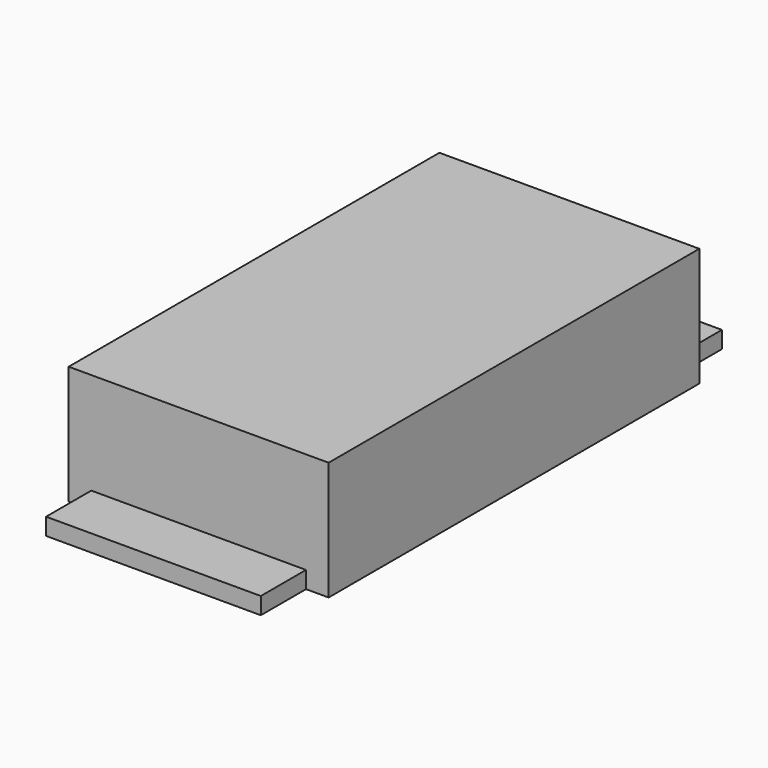
from build123d import *

# Parameters (mm, degrees)
F0_W     = 19
F0_H     = 5
F1_DEPTH = 9
F2_DEPTH = 1.5


with BuildPart() as f1:
    # F0 (on Top) → F1 (new body)
    with BuildSketch(Plane.XY):
        Polygon((9.5, -20.5), (11.5, -20.5), (11.5, 20.5), (9.5, 20.5), (9.5, 15.5), (-9.5, 15.5), (-9.5, 20.5), (-11.5, 20.5), (-11.5, -20.5), (-9.5, -20.5), (-9.5, -15.5), (9.5, -15.5), align=None)
        with Locations((0, 18)):
            Rectangle(F0_W, F0_H)
        with Locations((0, -18)):
            Rectangle(F0_W, F0_H)
    extrude(amount=F1_DEPTH)

    # F0 (on Top) → F2 (join)
    with BuildSketch(Plane.XY):
        with Locations((0, -23)):
            Rectangle(F0_W, F0_H)
        with Locations((0, -18)):
            Rectangle(F0_W, F0_H)
        Polygon((9.5, -20.5), (11.5, -20.5), (11.5, 20.5), (9.5, 20.5), (9.5, 15.5), (-9.5, 15.5), (-9.5, 20.5), (-11.5, 20.5), (-11.5, -20.5), (-9.5, -20.5), (-9.5, -15.5), (9.5, -15.5), align=None)
        with Locations((0, 18)):
            Rectangle(F0_W, F0_H)
        with Locations((0, 23)):
            Rectangle(F0_W, F0_H)
    extrude(amount=-F2_DEPTH)


solid = f1.part
